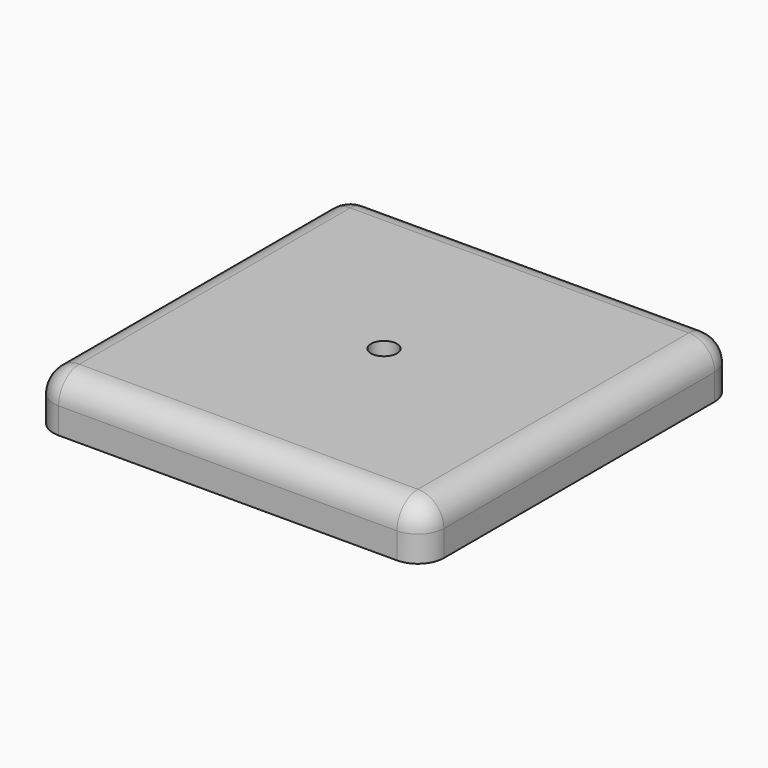
from build123d import *

# Parameters (mm, degrees)
F0_W     = 15
F0_H     = 15
F1_DEPTH = 2
F3_D     = 1
F4_R     = 1


with BuildPart() as f1:
    # F0 (on Top) → F1 (new body)
    with BuildSketch(Plane.XY):
        with Locations((-7.5, 7.5)):
            Rectangle(F0_W, F0_H)
    extrude(amount=F1_DEPTH)

    # F3 (through all)
    with Locations(Plane.XY.offset(2)):
        with Locations((-7.5, 7.5)):
            Hole(F3_D / 2)

    # F4
    f4_edges = [f1.edges().sort_by_distance(p)[0] for p in [
        (-7.5, 0, 2),
        (-15, 7.5, 2),
        (-7.5, 15, 2),
        (0, 7.5, 2),
        (0, 0, 1),
        (-15, 0, 1),
        (0, 15, 1),
        (-15, 15, 1),
    ]]
    fillet(f4_edges, radius=F4_R)


solid = f1.part
